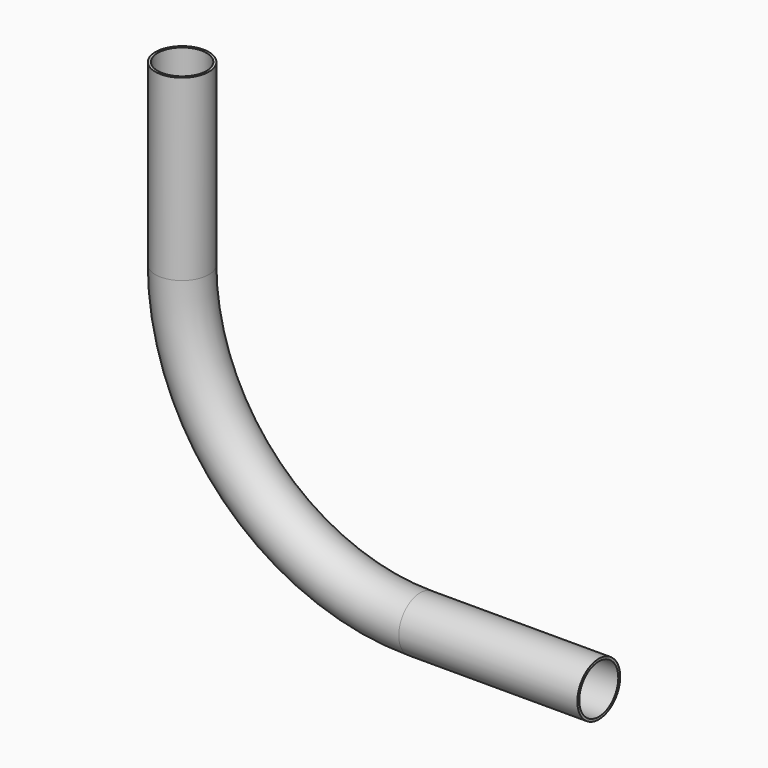
from build123d import *

# Parameters (mm, degrees)
F2_R   = 22.5
F2_R_2 = 20.5


with BuildPart() as f3:
    # F3: sweep along a path in F0
    with BuildLine(Plane.XZ) as f3_path:
        Line((0, 350), (0, 200))
        ThreePointArc((0, 200), (58.578644, 58.578644), (200, 0))
        Line((200, 0), (350, 0))
    # F2 (on plane+point) → F3 (sweep)
    with BuildSketch(Plane.XY.offset(350)):
        Circle(F2_R)
        Circle(F2_R_2, mode=Mode.SUBTRACT)
    sweep(path=f3_path.line)


solid = f3.part
